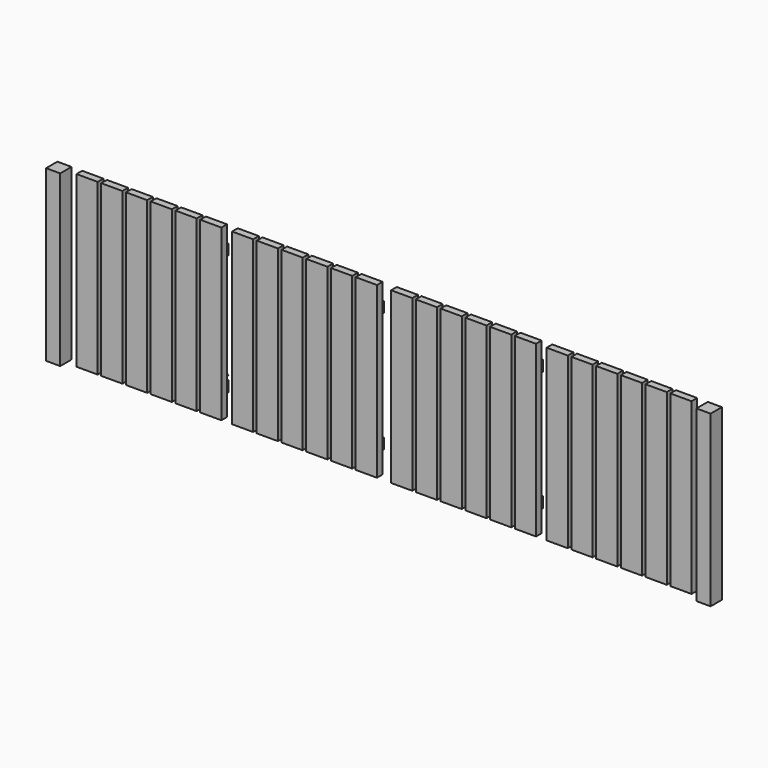
from build123d import *

# Parameters (mm, degrees)
F0_W     = 100
F0_H     = 1200
F1_DEPTH = 100
F2_W     = 150
F2_H     = 1200
F3_DEPTH = 50
F4_W     = 965
F4_H     = 75
F4_W_2   = 975
F5_DEPTH = 50


with BuildPart() as f1:
    # F0 (on Front) → F1 (new body)
    with BuildSketch(Plane.XZ):
        with Locations((-2300, 600)):
            Rectangle(F0_W, F0_H)
        with Locations((2300, 600)):
            Rectangle(F0_W, F0_H)
    extrude(amount=F1_DEPTH)


with BuildPart() as f3:
    # F2 (on Front) → F3 (new body)
    with BuildSketch(Plane.XZ):
        with Locations((-2100, 600)):
            Rectangle(F2_W, F2_H)
        with Locations((-125, 600)):
            Rectangle(F2_W, F2_H)
        with Locations((125, 600)):
            Rectangle(F2_W, F2_H)
        with Locations((2100, 600)):
            Rectangle(F2_W, F2_H)
        with Locations((-1925, 600)):
            Rectangle(F2_W, F2_H)
        with Locations((-1750, 600)):
            Rectangle(F2_W, F2_H)
        with Locations((-1575, 600)):
            Rectangle(F2_W, F2_H)
        with Locations((-1400, 600)):
            Rectangle(F2_W, F2_H)
        with Locations((-1225, 600)):
            Rectangle(F2_W, F2_H)
        with Locations((-300, 600)):
            Rectangle(F2_W, F2_H)
        with Locations((-475, 600)):
            Rectangle(F2_W, F2_H)
        with Locations((-650, 600)):
            Rectangle(F2_W, F2_H)
        with Locations((-825, 600)):
            Rectangle(F2_W, F2_H)
        with Locations((-1000, 600)):
            Rectangle(F2_W, F2_H)
        with Locations((300, 600)):
            Rectangle(F2_W, F2_H)
        with Locations((475, 600)):
            Rectangle(F2_W, F2_H)
        with Locations((650, 600)):
            Rectangle(F2_W, F2_H)
        with Locations((825, 600)):
            Rectangle(F2_W, F2_H)
        with Locations((1000, 600)):
            Rectangle(F2_W, F2_H)
        with Locations((1925, 600)):
            Rectangle(F2_W, F2_H)
        with Locations((1750, 600)):
            Rectangle(F2_W, F2_H)
        with Locations((1575, 600)):
            Rectangle(F2_W, F2_H)
        with Locations((1400, 600)):
            Rectangle(F2_W, F2_H)
        with Locations((1225, 600)):
            Rectangle(F2_W, F2_H)
    extrude(amount=F3_DEPTH)


with BuildPart() as f5:
    # F4 (on Front) → F5 (new body)
    with BuildSketch(Plane.XZ):
        with Locations((-1662.5, 1012.5)):
            Rectangle(F4_W, F4_H)
        with Locations((-562.5, 1012.5)):
            Rectangle(F4_W, F4_H)
        with Locations((562.5, 1012.5)):
            Rectangle(F4_W, F4_H)
        with Locations((1667.5, 1012.5)):
            Rectangle(F4_W_2, F4_H)
        with Locations((1667.5, 162.5)):
            Rectangle(F4_W_2, F4_H)
        with Locations((-1662.5, 162.5)):
            Rectangle(F4_W, F4_H)
        with Locations((-562.5, 162.5)):
            Rectangle(F4_W, F4_H)
        with Locations((562.5, 162.5)):
            Rectangle(F4_W, F4_H)
        Polygon((-1296.39813, 230), (-1180, 230), (-2028.60187, 945), (-2145, 945), align=None)
    extrude(amount=-F5_DEPTH)


solid = Compound([f1.part, f3.part, f5.part])
